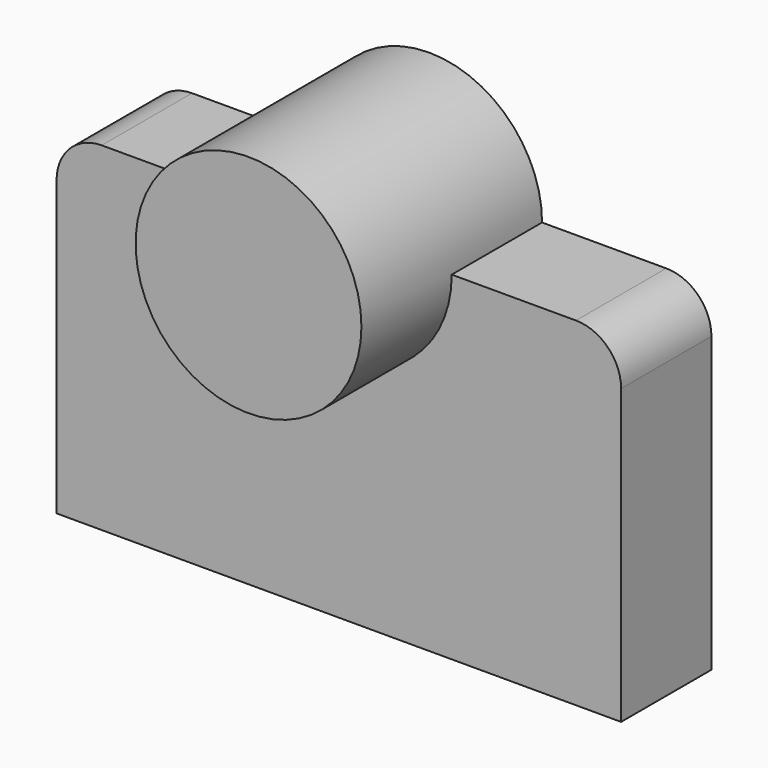
from build123d import *

# Parameters (mm, degrees)
F0_W     = 63.5
F0_H     = 38.1
F1_DEPTH = 12.7
F2_R     = 5.08
F3_R     = 12.7
F4_DEPTH = 25.4


with BuildPart() as f1:
    # F0 (on Front) → F1 (new body)
    with BuildSketch(Plane.XZ):
        Rectangle(F0_W, F0_H)
    extrude(amount=F1_DEPTH)

    # F2
    f2_edges = [f1.edges().sort_by_distance(p)[0] for p in [
        (31.75, -6.35, 19.05),
        (-31.75, -6.35, 19.05),
    ]]
    fillet(f2_edges, radius=F2_R)

    # F3 (on Front) → F4 (join)
    with BuildSketch(Plane.XZ):
        with Locations((0, 19.05)):
            Circle(F3_R)
    extrude(amount=F4_DEPTH)


solid = f1.part
